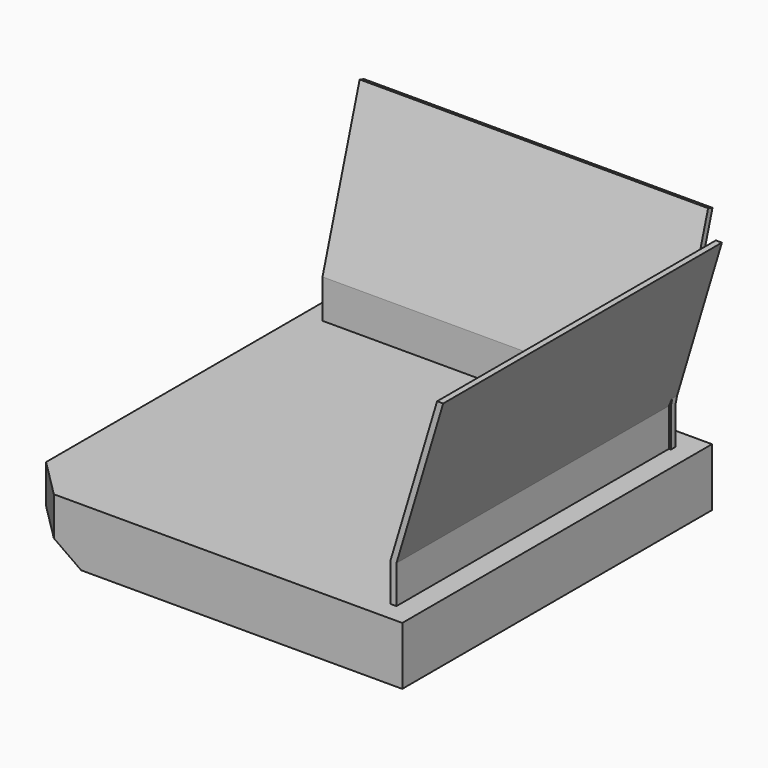
from build123d import *

# Parameters (mm, degrees)
F0_W     = 1000
F0_H     = 150
F1_DEPTH = 500
F3_DEPTH = 450
F5_DEPTH = 450
F6_SIZE  = 100
F7_SIZE  = 50


with BuildPart() as f1:
    # F0 (on Right) → F1 (new body, symmetric)
    with BuildSketch(Plane.YZ):
        Rectangle(F0_W, F0_H)
    extrude(amount=F1_DEPTH, both=True)

    # F2 (on Right) → F3 (join, symmetric)
    with BuildSketch(Plane.YZ):
        Polygon((430, 175), (430, 75), (445, 75), (445, 172.7984674554), (564.1914670014, 570.1033574602), (550, 575), align=None)
    extrude(amount=F3_DEPTH, both=True)

    # F4 (on Front) → F5 (join, symmetric)
    with BuildSketch(Plane.XZ):
        Polygon((430, 175), (430, 75), (445, 75), (445, 172.7984674554), (565.6604597634, 575), (550, 575), align=None)
    extrude(amount=F5_DEPTH, both=True)

    # F6
    f6_edges = [f1.edges().sort_by_distance(p)[0] for p in [
        (-500, -500, 0),
    ]]
    chamfer(f6_edges, length=F6_SIZE)

    # F7
    f7_edges = [f1.edges().sort_by_distance(p)[0] for p in [
        (-450, -450, -75),
    ]]
    chamfer(f7_edges, length=F7_SIZE)


solid = f1.part
